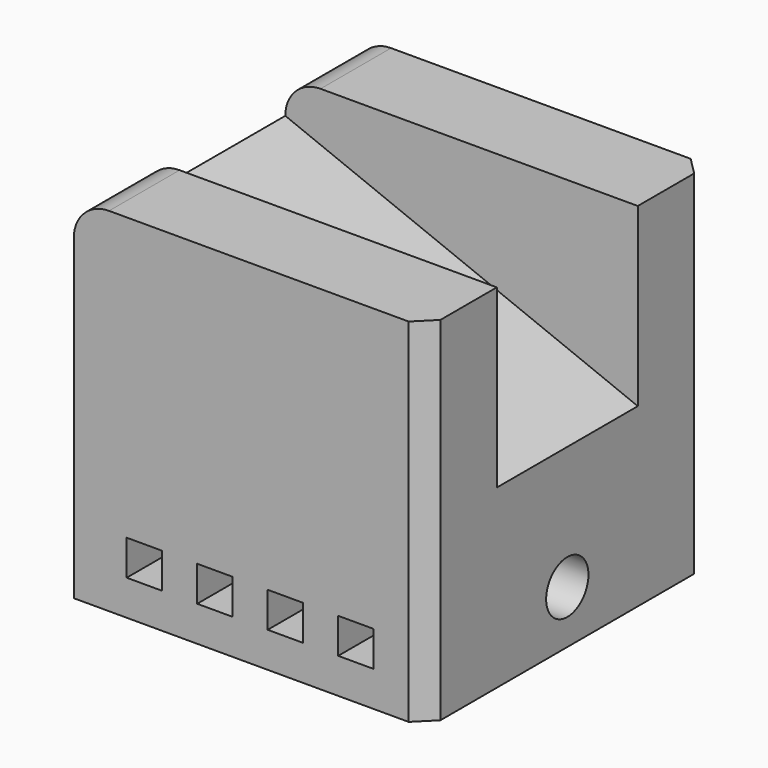
from build123d import *

# Parameters (mm, degrees)
F0_W      = 100
F0_H      = 100
F1_DEPTH  = 100
F3_R      = 10
F4_W      = 10
F4_H      = 10
F5_DEPTH  = 20
F6_R      = 7.5
F7_DEPTH  = 100.001
F10_DEPTH = 25
F11_SIZE  = 5


with BuildPart() as f1:
    # F0 (on Top) → F1 (new body)
    with BuildSketch(Plane.XY):
        with Locations((50, 50)):
            Rectangle(F0_W, F0_H)
    extrude(amount=F1_DEPTH)

    # F3
    f3_edges = [f1.edges().sort_by_distance(p)[0] for p in [
        (0, 50, 100),
    ]]
    fillet(f3_edges, radius=F3_R)

    # F4 (on face) → F5 (cut)
    with BuildSketch(Plane.XZ):
        with Locations((20, 15)):
            Rectangle(F4_W, F4_H)
        with Locations((40, 15)):
            Rectangle(F4_W, F4_H)
        with Locations((60, 15)):
            Rectangle(F4_W, F4_H)
        with Locations((80, 15)):
            Rectangle(F4_W, F4_H)
    extrude(amount=-F5_DEPTH, mode=Mode.SUBTRACT)

    # F6 (on face) → F7 (cut, through all)
    with BuildSketch(Plane.YZ.offset(100)):
        with Locations((50, 15)):
            Circle(F6_R)
    extrude(amount=-F7_DEPTH, mode=Mode.SUBTRACT)

    # F9 (on offset) → F10 (cut, symmetric)
    with BuildSketch(Plane.XZ.offset(-50)):
        Polygon((0, 90), (100, 50), (100, 100), (0, 100), align=None)
    extrude(amount=F10_DEPTH, both=True, mode=Mode.SUBTRACT)

    # F11
    f11_edges = [f1.edges().sort_by_distance(p)[0] for p in [
        (100, 0, 50),
        (100, 100, 50),
    ]]
    chamfer(f11_edges, length=F11_SIZE)


solid = f1.part
